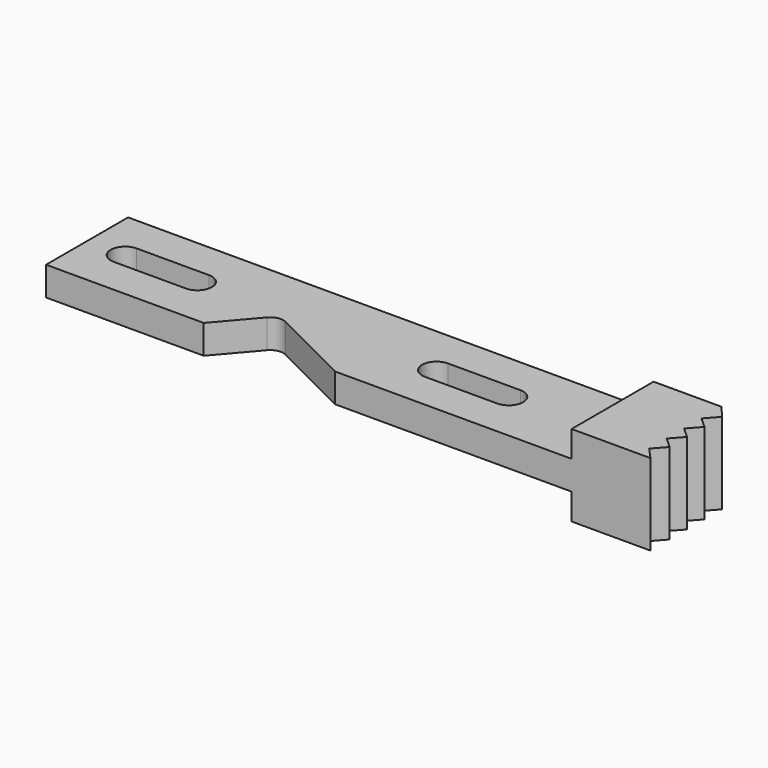
from build123d import *

# Parameters (mm, degrees)
F0_W      = 40
F0_H      = 7.8
F1_DEPTH  = 2.2
F2_W      = 7.8
F2_H      = 6.2
F3_DEPTH  = 6
F5_DEPTH  = 25
F7_DEPTH  = 25
F8_R      = 1
F10_DEPTH = 25
F12_DEPTH = 25


with BuildPart() as f1:
    # F0 (on Top) → F1 (new body)
    with BuildSketch(Plane.XY):
        with Locations((20, 3.9)):
            Rectangle(F0_W, F0_H)
    extrude(amount=F1_DEPTH)

    # F2 (on face) → F3 (join)
    with BuildSketch(Plane.YZ.offset(40)):
        with Locations((3.9, 1.1)):
            Rectangle(F2_W, F2_H)
    extrude(amount=F3_DEPTH)

    # F4 (on face) → F5 (cut)
    with BuildSketch(Plane(origin=(0, 0, -2), x_dir=(1, 0, 0), z_dir=(0, 0, -1))):
        Polygon((46, -1.829873), (46, 0), (45.176316, -0.90971), align=None)
        Polygon((46, -7.8), (46, -6.802324), (45.176316, -7.8), align=None)
        Polygon((46, -6.802324), (46, -5.144841), (45.176316, -5.882161), align=None)
        Polygon((46, -5.144841), (46, -3.487357), (45.176316, -4.224677), align=None)
        Polygon((46, -3.487357), (46, -1.829873), (45.176316, -2.567193), align=None)
    extrude(amount=-F5_DEPTH, mode=Mode.SUBTRACT)

    # F6 (on face) → F7 (cut)
    with BuildSketch(Plane(origin=(0, 0, 0), x_dir=(1, 0, 0), z_dir=(0, 0, -1))):
        Polygon((12, 0), (15, -3.5), (22, 0), align=None)
    extrude(amount=-F7_DEPTH, mode=Mode.SUBTRACT)

    # F8
    f8_edges = [f1.edges().sort_by_distance(p)[0] for p in [
        (15, 3.5, 1.1),
    ]]
    fillet(f8_edges, radius=F8_R)

    # F9 (on face) → F10 (cut)
    with BuildSketch(Plane(origin=(0, 0, 0), x_dir=(1, 0, 0), z_dir=(0, 0, -1))):
        with BuildLine():
            Line((8.4, -2.8), (2.9, -2.8))
            ThreePointArc((2.9, -2.8), (1.8, -3.9), (2.9, -5))
            Line((2.9, -5), (8.4, -5))
            ThreePointArc((8.4, -5), (9.5, -3.9), (8.4, -2.8))
        make_face()
    extrude(amount=-F10_DEPTH, mode=Mode.SUBTRACT)

    # F11 (on face) → F12 (cut)
    with BuildSketch(Plane(origin=(0, 0, 0), x_dir=(1, 0, 0), z_dir=(0, 0, -1))):
        with BuildLine():
            Line((32.1, -2.8), (26.6, -2.8))
            ThreePointArc((26.6, -2.8), (25.5, -3.9), (26.6, -5))
            Line((26.6, -5), (32.1, -5))
            ThreePointArc((32.1, -5), (33.2, -3.9), (32.1, -2.8))
        make_face()
    extrude(amount=-F12_DEPTH, mode=Mode.SUBTRACT)


solid = f1.part
